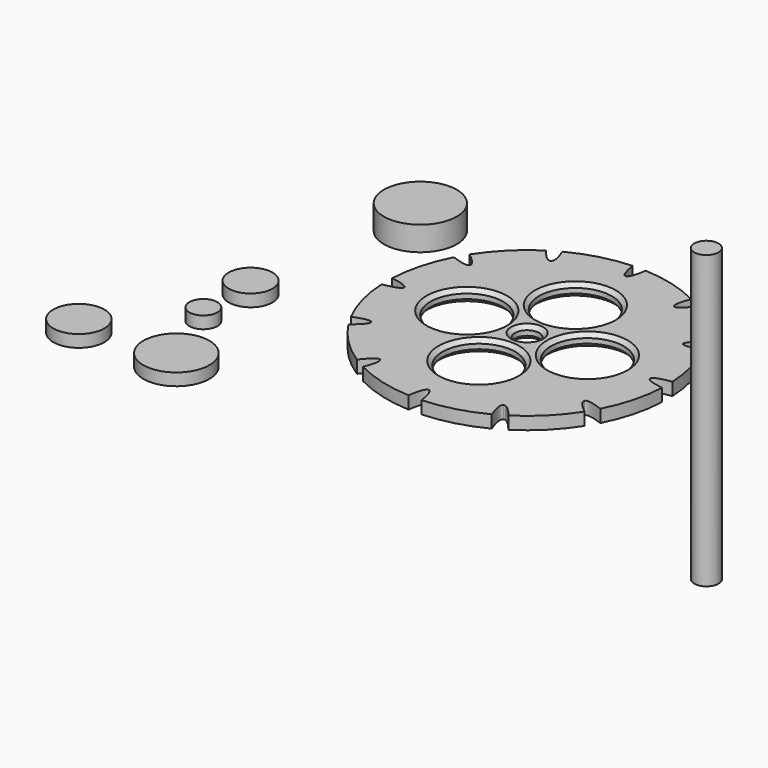
from build123d import *

# Parameters (mm, degrees)
F0_R          = 73.301676
F1_DEPTH      = 6.604
F3_DEPTH      = 25.4
F3_DEPTH_BACK = 25.4
F4_DEPTH      = 25.4
F4_DEPTH_BACK = 25.4
F5_R          = 19.05
F6_DEPTH      = 25.4
F6_DEPTH_BACK = 25.4
F7_R          = 6.35
F8_DEPTH      = 25.4
F8_DEPTH_BACK = 25.4
F9_SIZE       = 2.032
F10_R         = 6.35
F11_DEPTH     = 76.2
F12_R         = 19.05
F13_DEPTH     = 12.7
F14_R         = 17.272182
F14_R_2       = 7.307348
F14_R_3       = 11.448223
F14_R_4       = 13.359203
F15_DEPTH     = 6.35


with BuildPart() as f1:
    # F0 (on Top) → F1 (new body)
    with BuildSketch(Plane.XY):
        Circle(F0_R)
    extrude(amount=F1_DEPTH)

    # F2 (on Top) → F3 (cut, two sides)
    with BuildSketch(Plane.XY) as f3_sk:
        with BuildLine():
            add(Edge.make_bspline(
                [(0, 64.334869), (7.619401, 64.334869), (3.809701, 99.658724), (0, 134.982578), (-3.809701, 99.658724), (-7.619401, 64.334869), (0, 64.334869)],
                knots=[0, 0, 0, 2.094395, 2.094395, 4.18879, 4.18879, 6.283185, 6.283185, 6.283185], degree=2, weights=[1, 0.5, 1, 0.5, 1, 0.5, 1]))
        make_face()
    extrude(amount=F3_DEPTH, mode=Mode.SUBTRACT)
    extrude(f3_sk.sketch, amount=-F3_DEPTH_BACK, mode=Mode.SUBTRACT)

    # F2 (on Top) → F4 (cut, two sides)
    with BuildSketch(Plane.XY) as f4_sk:
        with BuildLine():
            add(Edge.make_bspline(
                [(0, 64.334869), (7.619401, 64.334869), (3.809701, 99.658724), (0, 134.982578), (-3.809701, 99.658724), (-7.619401, 64.334869), (0, 64.334869)],
                knots=[0, 0, 0, 2.094395, 2.094395, 4.18879, 4.18879, 6.283185, 6.283185, 6.283185], degree=2, weights=[1, 0.5, 1, 0.5, 1, 0.5, 1]))
        make_face()
        with BuildLine():
            add(Edge.make_bspline(
                [(-32.167435, 55.715631), (-25.56884, 59.525332), (-46.530065, 88.211837), (-67.491289, 116.898342), (-53.128659, 84.402136), (-38.76603, 51.905931), (-32.167435, 55.715631)],
                knots=[0, 0, 0, 2.094395, 2.094395, 4.18879, 4.18879, 6.283185, 6.283185, 6.283185], degree=2, weights=[1, 0.5, 1, 0.5, 1, 0.5, 1]))
        make_face()
        with BuildLine():
            add(Edge.make_bspline(
                [(-55.715631, 32.167435), (-51.905931, 38.76603), (-84.402136, 53.128659), (-116.898342, 67.491289), (-88.211837, 46.530065), (-59.525332, 25.56884), (-55.715631, 32.167435)],
                knots=[0, 0, 0, 2.094395, 2.094395, 4.18879, 4.18879, 6.283185, 6.283185, 6.283185], degree=2, weights=[1, 0.5, 1, 0.5, 1, 0.5, 1]))
        make_face()
        with BuildLine():
            add(Edge.make_bspline(
                [(-64.334869, 0), (-64.334869, 7.619401), (-99.658724, 3.809701), (-134.982578, 0), (-99.658724, -3.809701), (-64.334869, -7.619401), (-64.334869, 0)],
                knots=[0, 0, 0, 2.094395, 2.094395, 4.18879, 4.18879, 6.283185, 6.283185, 6.283185], degree=2, weights=[1, 0.5, 1, 0.5, 1, 0.5, 1]))
        make_face()
        with BuildLine():
            add(Edge.make_bspline(
                [(-55.715631, -32.167435), (-59.525332, -25.56884), (-88.211837, -46.530065), (-116.898342, -67.491289), (-84.402136, -53.128659), (-51.905931, -38.76603), (-55.715631, -32.167435)],
                knots=[0, 0, 0, 2.094395, 2.094395, 4.18879, 4.18879, 6.283185, 6.283185, 6.283185], degree=2, weights=[1, 0.5, 1, 0.5, 1, 0.5, 1]))
        make_face()
        with BuildLine():
            add(Edge.make_bspline(
                [(-32.167435, -55.715631), (-38.76603, -51.905931), (-53.128659, -84.402136), (-67.491289, -116.898342), (-46.530065, -88.211837), (-25.56884, -59.525332), (-32.167435, -55.715631)],
                knots=[0, 0, 0, 2.094395, 2.094395, 4.18879, 4.18879, 6.283185, 6.283185, 6.283185], degree=2, weights=[1, 0.5, 1, 0.5, 1, 0.5, 1]))
        make_face()
        with BuildLine():
            add(Edge.make_bspline(
                [(0, -64.334869), (-7.619401, -64.334869), (-3.809701, -99.658724), (0, -134.982578), (3.809701, -99.658724), (7.619401, -64.334869), (0, -64.334869)],
                knots=[0, 0, 0, 2.094395, 2.094395, 4.18879, 4.18879, 6.283185, 6.283185, 6.283185], degree=2, weights=[1, 0.5, 1, 0.5, 1, 0.5, 1]))
        make_face()
        with BuildLine():
            add(Edge.make_bspline(
                [(32.167435, -55.715631), (25.56884, -59.525332), (46.530065, -88.211837), (67.491289, -116.898342), (53.128659, -84.402136), (38.76603, -51.905931), (32.167435, -55.715631)],
                knots=[0, 0, 0, 2.094395, 2.094395, 4.18879, 4.18879, 6.283185, 6.283185, 6.283185], degree=2, weights=[1, 0.5, 1, 0.5, 1, 0.5, 1]))
        make_face()
        with BuildLine():
            add(Edge.make_bspline(
                [(55.715631, -32.167435), (51.905931, -38.76603), (84.402136, -53.128659), (116.898342, -67.491289), (88.211837, -46.530065), (59.525332, -25.56884), (55.715631, -32.167435)],
                knots=[0, 0, 0, 2.094395, 2.094395, 4.18879, 4.18879, 6.283185, 6.283185, 6.283185], degree=2, weights=[1, 0.5, 1, 0.5, 1, 0.5, 1]))
        make_face()
        with BuildLine():
            add(Edge.make_bspline(
                [(64.334869, 0), (64.334869, -7.619401), (99.658724, -3.809701), (134.982578, 0), (99.658724, 3.809701), (64.334869, 7.619401), (64.334869, 0)],
                knots=[0, 0, 0, 2.094395, 2.094395, 4.18879, 4.18879, 6.283185, 6.283185, 6.283185], degree=2, weights=[1, 0.5, 1, 0.5, 1, 0.5, 1]))
        make_face()
        with BuildLine():
            add(Edge.make_bspline(
                [(55.715631, 32.167435), (59.525332, 25.56884), (88.211837, 46.530065), (116.898342, 67.491289), (84.402136, 53.128659), (51.905931, 38.76603), (55.715631, 32.167435)],
                knots=[0, 0, 0, 2.094395, 2.094395, 4.18879, 4.18879, 6.283185, 6.283185, 6.283185], degree=2, weights=[1, 0.5, 1, 0.5, 1, 0.5, 1]))
        make_face()
        with BuildLine():
            add(Edge.make_bspline(
                [(32.167435, 55.715631), (38.76603, 51.905931), (53.128659, 84.402136), (67.491289, 116.898342), (46.530065, 88.211837), (25.56884, 59.525332), (32.167435, 55.715631)],
                knots=[0, 0, 0, 2.094395, 2.094395, 4.18879, 4.18879, 6.283185, 6.283185, 6.283185], degree=2, weights=[1, 0.5, 1, 0.5, 1, 0.5, 1]))
        make_face()
    extrude(amount=F4_DEPTH, mode=Mode.SUBTRACT)
    extrude(f4_sk.sketch, amount=-F4_DEPTH_BACK, mode=Mode.SUBTRACT)

    # F5 (on face) → F6 (cut, two sides)
    with BuildSketch(Plane.XY.offset(6.604)) as f6_sk:
        with Locations((0, 31.509579)):
            Circle(F5_R)
        with Locations((-31.509579, 0)):
            Circle(F5_R)
        with Locations((31.509579, 0)):
            Circle(F5_R)
        with Locations((0, -31.509579)):
            Circle(F5_R)
    extrude(amount=-F6_DEPTH, mode=Mode.SUBTRACT)
    extrude(f6_sk.sketch, amount=-F6_DEPTH_BACK, mode=Mode.SUBTRACT)

    # F7 (on face) → F8 (cut, two sides)
    with BuildSketch(Plane.XY.offset(6.604)) as f8_sk:
        Circle(F7_R)
    extrude(amount=-F8_DEPTH, mode=Mode.SUBTRACT)
    extrude(f8_sk.sketch, amount=-F8_DEPTH_BACK, mode=Mode.SUBTRACT)

    # F9
    f9_edges = [f1.edges().sort_by_distance(p)[0] for p in [
        (-6.35, 0, 6.604),
        (12.459579, 0, 6.604),
        (-19.05, -31.509579, 6.604),
        (-50.559579, 0, 6.604),
        (-19.05, 31.509579, 6.604),
        (-6.35, 0, 0),
        (-19.05, 31.509579, 0),
        (12.459579, 0, 0),
        (-19.05, -31.509579, 0),
        (-50.559579, 0, 0),
    ]]
    chamfer(f9_edges, length=F9_SIZE)


with BuildPart() as f11:
    # F10 (on Top) → F11 (new body, symmetric)
    with BuildSketch(Plane.XY):
        with Locations((93.673911, 0)):
            Circle(F10_R)
    extrude(amount=F11_DEPTH, both=True)


with BuildPart() as f13:
    # F12 (on Top) → F13 (new body)
    with BuildSketch(Plane.XY):
        with Locations((-98.363526, 53.218197)):
            Circle(F12_R)
    extrude(amount=F13_DEPTH)


with BuildPart() as f15:
    # F14 (on Top) → F15 (new body)
    with BuildSketch(Plane.XY):
        with Locations((-101.032317, -102.779903)):
            Circle(F14_R)
        with Locations((-117.654324, -64.365558)):
            Circle(F14_R_2)
        with Locations((-117.313311, -33.930141)):
            Circle(F14_R_3)
        with Locations((-150.854006, -104.215875)):
            Circle(F14_R_4)
    extrude(amount=F15_DEPTH)


solid = Compound([f1.part, f11.part, f13.part, f15.part])
